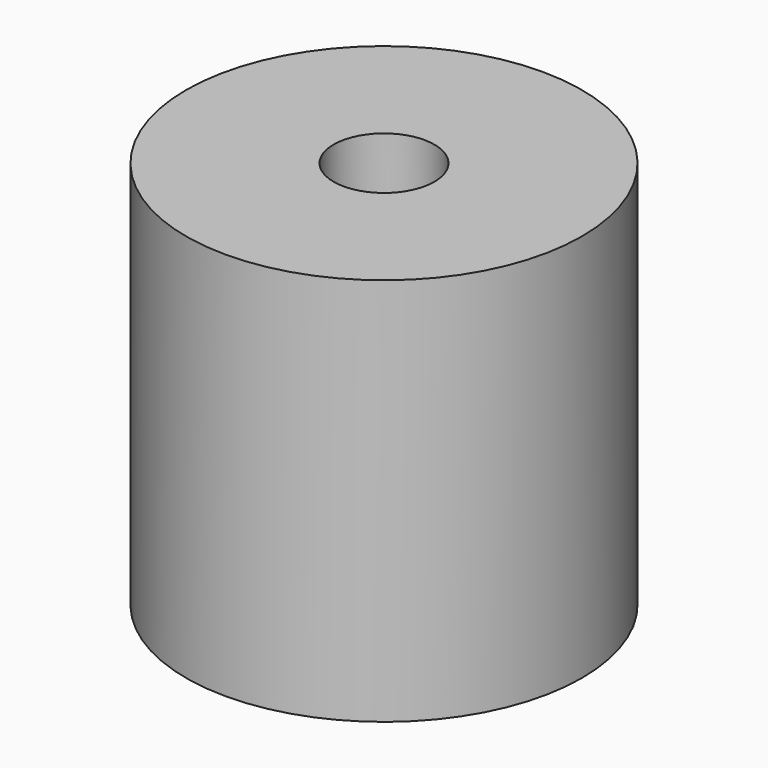
from build123d import *

# Parameters (mm, degrees)
F0_R     = 34.925
F1_DEPTH = 68.58
F3_D     = 17.78
F3_DEPTH = 25.4
F3_TIP   = 5.3416509032


with BuildPart() as f1:
    # F0 (on Top) → F1 (new body)
    with BuildSketch(Plane.XY):
        Circle(F0_R)
    extrude(amount=-F1_DEPTH)

    # F3
    with Locations(Plane.XY):
        with Locations((0, 0)):
            Hole(F3_D / 2, depth=F3_DEPTH)
            with Locations((0, 0, -(F3_DEPTH + F3_TIP / 2))):  # 118° drill point
                Cone(0, F3_D / 2, F3_TIP, mode=Mode.SUBTRACT)


solid = f1.part
